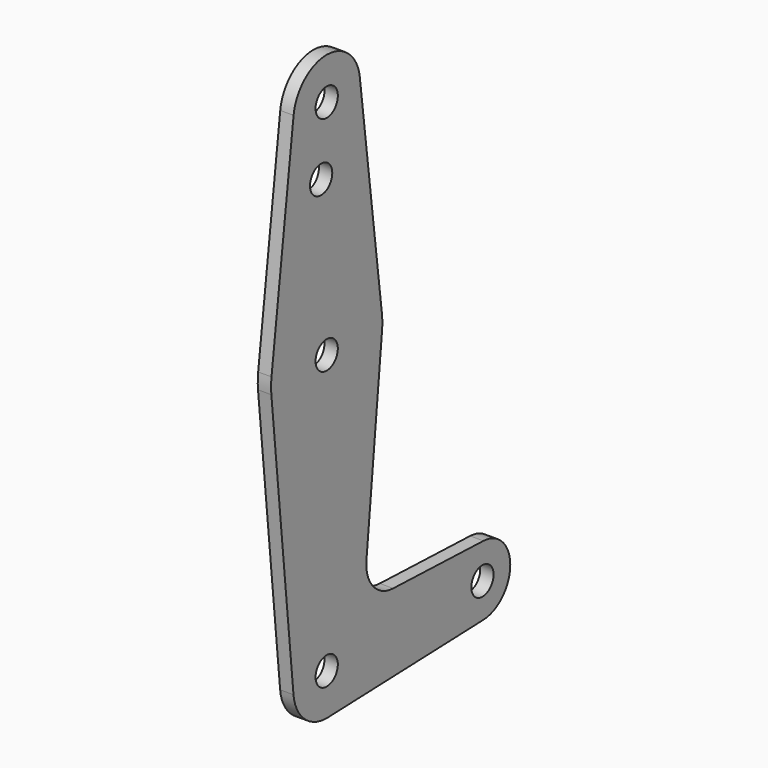
from build123d import *

# Parameters (mm, degrees)
F0_R     = 3.175
F1_DEPTH = 3.048


with BuildPart() as f1:
    # F0 (on Right) → F1 (new body)
    with BuildSketch(Plane.YZ):
        with BuildLine():
            Line((-9.450293, 115.490631), (-15.750488, 65.484381))
            ThreePointArc((-15.750488, 65.484381), (0, 79.375006), (15.750488, 65.484381))
            Line((15.750488, 65.484381), (9.450293, 115.490631))
            ThreePointArc((9.450293, 115.490631), (9.506305, 114.896489), (9.525, 114.300006))
            ThreePointArc((9.525, 114.300006), (-0.596483, 104.793701), (-9.450293, 115.490631))
        make_face()
        with Locations((-1.5875, 99.415764)):
            Circle(F0_R, mode=Mode.SUBTRACT)
        with BuildLine():
            ThreePointArc((9.450293, 115.490631), (0, 123.825006), (-9.450293, 115.490631))
            ThreePointArc((-9.450293, 115.490631), (-0.596483, 104.793701), (9.525, 114.300006))
            ThreePointArc((9.525, 114.300006), (9.506305, 114.896489), (9.450293, 115.490631))
        make_face()
        with Locations((0, 114.300006)):
            Circle(F0_R, mode=Mode.SUBTRACT)
        with BuildLine():
            ThreePointArc((-15.795426, 61.912506), (0, 47.625006), (15.795426, 61.912506))
            ThreePointArc((15.795426, 61.912506), (15.855094, 62.705259), (15.875, 63.500006))
            ThreePointArc((15.875, 63.500006), (15.843841, 64.494144), (15.750488, 65.484381))
            ThreePointArc((15.750488, 65.484381), (0, 79.375006), (-15.750488, 65.484381))
            ThreePointArc((-15.750488, 65.484381), (-15.873744, 63.699711), (-15.795426, 61.912506))
        make_face()
        with Locations((0, 63.500006)):
            Circle(F0_R, mode=Mode.SUBTRACT)
        with BuildLine():
            ThreePointArc((44.733482, -7.932436), (36.5125, 0), (44.733482, 7.932436))
            Line((44.733482, 7.932436), (18.9676, 8.853234))
            ThreePointArc((18.9676, 8.853234), (13.2612, 11.571359), (11.341186, 17.593382))
            Line((11.341186, 17.593382), (15.795426, 61.912506))
            ThreePointArc((15.795426, 61.912506), (0, 47.625006), (-15.795426, 61.912506))
            Line((-15.795426, 61.912506), (-9.477255, -0.9525))
            ThreePointArc((-9.477255, -0.9525), (-0.476848, 9.513056), (9.525, 0))
            ThreePointArc((9.525, 0), (6.854408, -6.613827), (0.340179, -9.518923))
            Line((0.340179, -9.518923), (44.733482, -7.932436))
        make_face()
        with BuildLine():
            ThreePointArc((-9.477255, -0.9525), (-6.262383, -7.17692), (0.340179, -9.518923))
            ThreePointArc((0.340179, -9.518923), (6.854408, -6.613827), (9.525, 0))
            ThreePointArc((9.525, 0), (-0.476848, 9.513056), (-9.477255, -0.9525))
        make_face()
        Circle(F0_R, mode=Mode.SUBTRACT)
        with BuildLine():
            ThreePointArc((44.733482, -7.932436), (50.162007, -5.511523), (52.3875, 0))
            ThreePointArc((52.3875, 0), (50.162007, 5.511523), (44.733482, 7.932436))
            ThreePointArc((44.733482, 7.932436), (36.5125, 0), (44.733482, -7.932436))
        make_face()
        with Locations((44.45, 0)):
            Circle(F0_R, mode=Mode.SUBTRACT)
    extrude(amount=F1_DEPTH)


solid = f1.part
